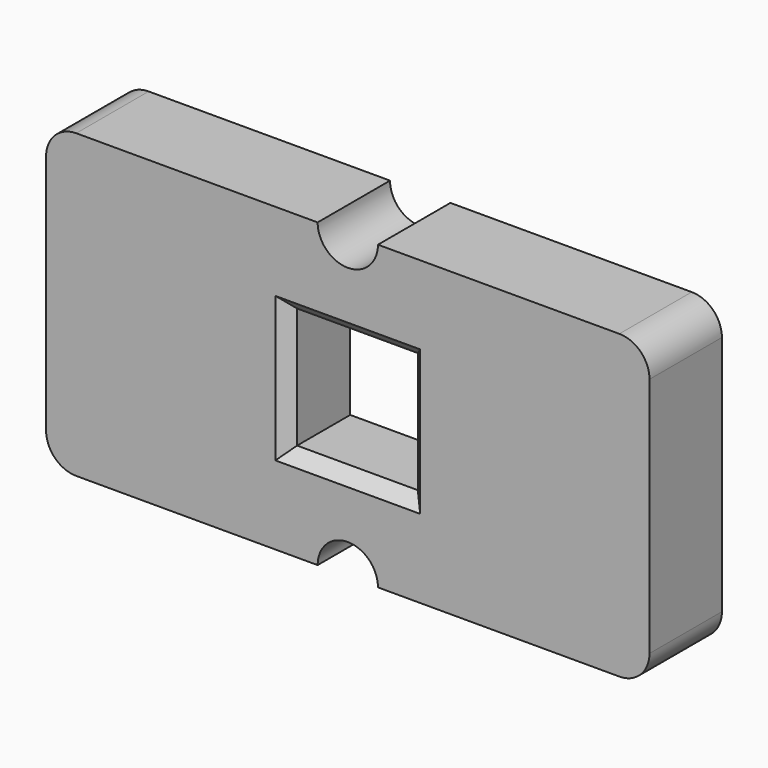
from build123d import *

# Parameters (mm, degrees)
F0_W     = 50.8
F0_H     = 50.8
F1_DEPTH = 38.1
F2_SIZE  = 5.08


with BuildPart() as f1:
    # F0 (on Front) → F1 (new body)
    with BuildSketch(Plane.XZ):
        with BuildLine():
            ThreePointArc((-134.08614, -39.708438), (-130.366396, -48.688694), (-121.38614, -52.408438))
            Line((-121.38614, -52.408438), (-19.78614, -52.408438))
            ThreePointArc((-19.78614, -52.408438), (-7.08614, -39.708438), (5.61386, -52.408438))
            Line((5.61386, -52.408438), (107.21386, -52.408438))
            ThreePointArc((107.21386, -52.408438), (116.194116, -48.688694), (119.91386, -39.708438))
            Line((119.91386, -39.708438), (119.91386, 61.891562))
            ThreePointArc((119.91386, 61.891562), (116.194116, 70.871818), (107.21386, 74.591562))
            Line((107.21386, 74.591562), (5.61386, 74.591562))
            ThreePointArc((5.61386, 74.591562), (-7.08614, 61.891562), (-19.78614, 74.591562))
            Line((-19.78614, 74.591562), (-121.38614, 74.591562))
            ThreePointArc((-121.38614, 74.591562), (-130.366396, 70.871818), (-134.08614, 61.891562))
            Line((-134.08614, 61.891562), (-134.08614, -39.708438))
        make_face()
        with Locations((-7.08614, 11.091562)):
            Rectangle(F0_W, F0_H, mode=Mode.SUBTRACT)
    extrude(amount=F1_DEPTH)

    # F2
    f2_edges = [f1.edges().sort_by_distance(p)[0] for p in [
        (18.31386, -38.1, 11.091562),
        (-7.08614, -38.1, -14.308438),
        (-32.48614, -38.1, 11.091562),
        (-7.08614, -38.1, 36.491562),
        (-7.08614, 0, -14.308438),
        (-32.48614, 0, 11.091562),
        (18.31386, 0, 11.091562),
        (-7.08614, 0, 36.491562),
    ]]
    chamfer(f2_edges, length=F2_SIZE)


solid = f1.part
